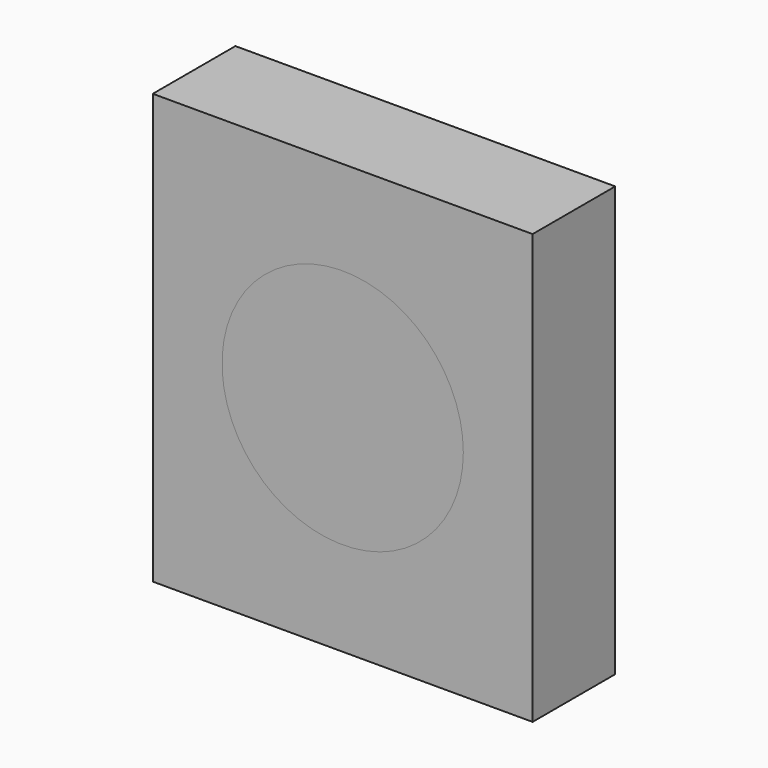
from build123d import *

# Parameters (mm, degrees)
F0_W     = 93.411795795
F0_H     = 105.6225001812
F2_DEPTH = 25.4
F1_R     = 29.6675238141


with BuildPart() as f2:
    # F0 (on Front) → F2 (new body)
    with BuildSketch(Plane.XZ):
        Rectangle(F0_W, F0_H)
    extrude(amount=-F2_DEPTH)


with BuildPart() as f2b:
    # F1 (on face) → F2, piece 2 (new body)
    with BuildSketch(Plane.XZ):
        Circle(F1_R)
    extrude(amount=-F2_DEPTH)


solid = Compound([f2.part, f2b.part])
